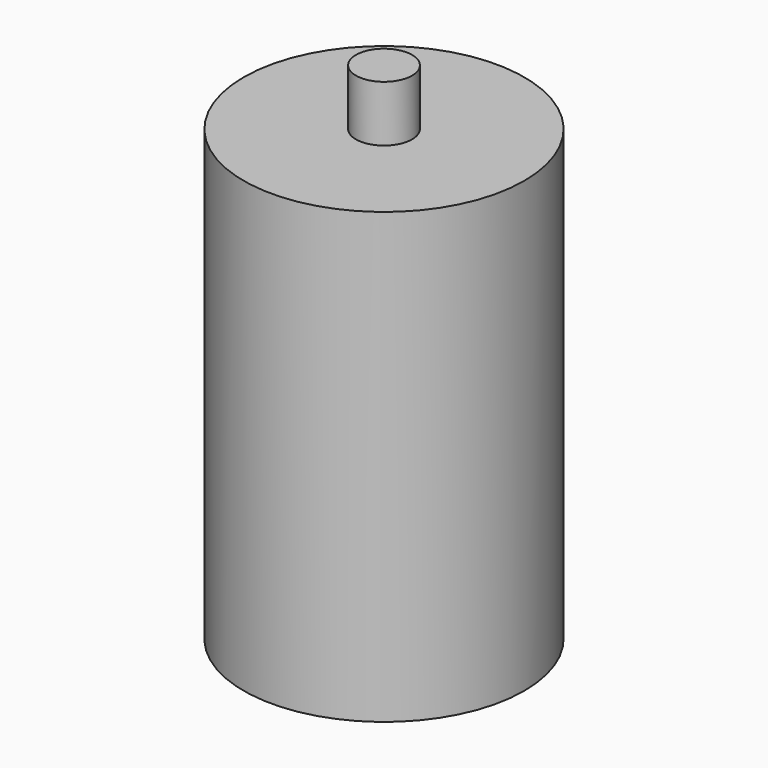
from build123d import *

# Parameters (mm, degrees)
SKETCH_R     = 7.5
PAD_DEPTH    = 24
SKETCH001_R  = 1.5
PAD001_DEPTH = 3
SKETCH002_R  = 1.5
PAD002_DEPTH = 3


with BuildPart() as part:
    # Sketch → Pad (new body)
    with BuildSketch(Plane.XY):
        Circle(SKETCH_R)
    extrude(amount=PAD_DEPTH)

    # Sketch001 → Pad001 (new body)
    with BuildSketch(Plane.XY.offset(24)):
        Circle(SKETCH001_R)
    extrude(amount=PAD001_DEPTH)

    # Sketch002 → Pad002 (new body)
    with BuildSketch(Plane(origin=(0, 0, 0), x_dir=(1, 0, 0), z_dir=(0, 0, -1))):
        Circle(SKETCH002_R)
    extrude(amount=PAD002_DEPTH)


solid = part.part
